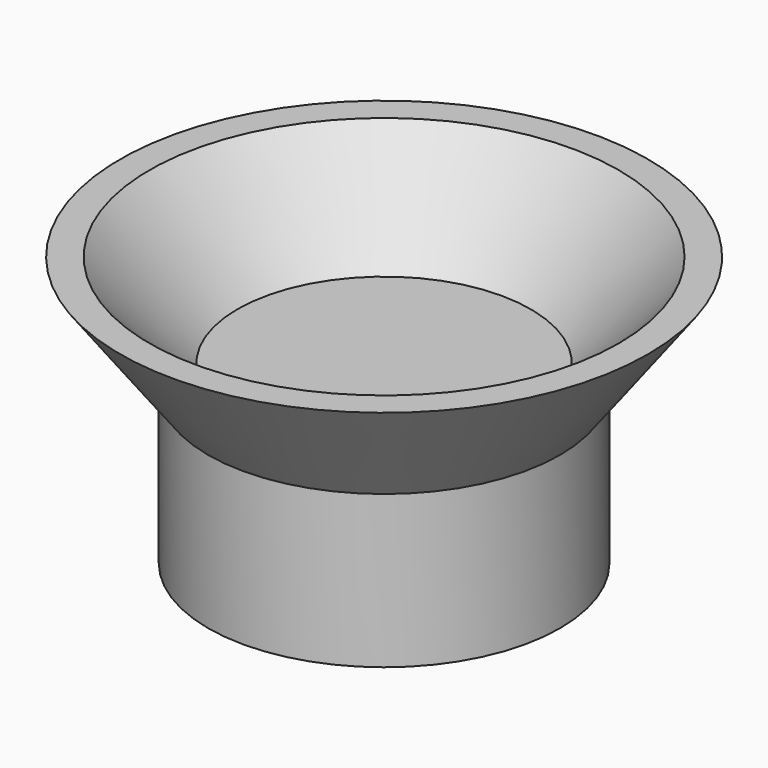
from build123d import *

# Parameters (mm, degrees)
F0_R      = 15
F2_R      = 22.5
F4_R      = 20
F6_R      = 12.5
F8_R      = 15
F8_R_2    = 12.5
F9_DEPTH  = 13
F10_R     = 12.5
F10_R_2   = 10.5
F11_DEPTH = 7


with BuildPart() as f3:
    # F0 (on Top) → F3 section 0
    with BuildSketch(Plane.XY):
        Circle(F0_R)
    # F2 (on offset) → F3 section 1
    with BuildSketch(Plane.XY.offset(10)):
        Circle(F2_R)
    loft()

    # F4 (on face) → F7 section 0
    with BuildSketch(Plane.XY.offset(10)):
        Circle(F4_R)
    # F6 (on offset) → F7 section 1
    with BuildSketch(Plane.XY.offset(2)):
        Circle(F6_R)
    loft(mode=Mode.SUBTRACT)

    # F8 (on face) → F9 (join)
    with BuildSketch(Plane(origin=(0, 0, 0), x_dir=(1, 0, 0), z_dir=(0, 0, -1))):
        Circle(F8_R)
        Circle(F8_R_2, mode=Mode.SUBTRACT)
    extrude(amount=F9_DEPTH)


with BuildPart() as f11:
    # F10 (on face) → F11 (new body)
    with BuildSketch(Plane(origin=(0, 0, -13), x_dir=(1, 0, 0), z_dir=(0, 0, -1))):
        Circle(F10_R)
        Circle(F10_R_2, mode=Mode.SUBTRACT)
    extrude(amount=-F11_DEPTH)


solid = Compound([f3.part, f11.part])
